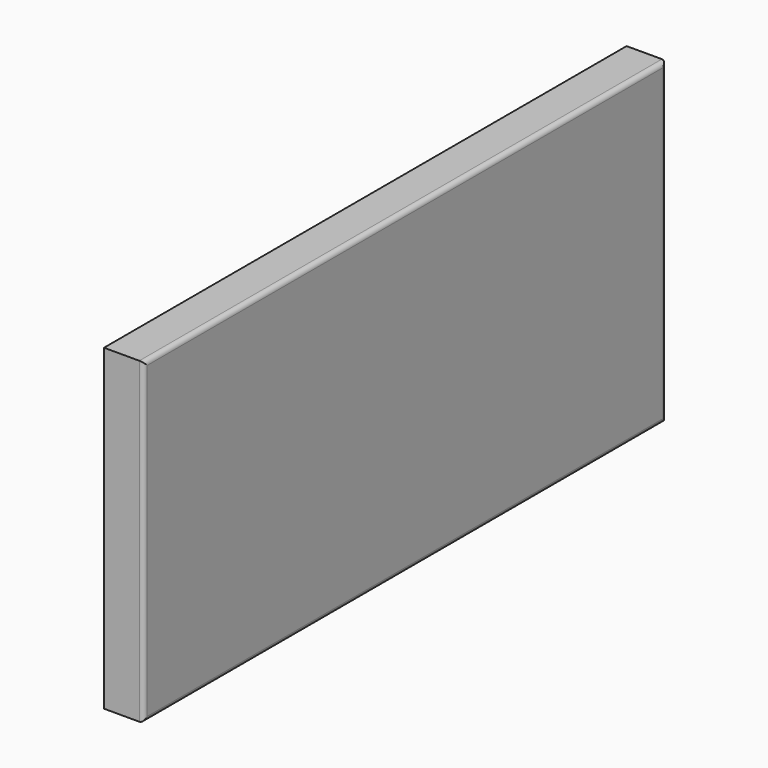
from build123d import *

# Parameters (mm, degrees)
F0_W     = 43.0421233177
F0_H     = 34.4761312008
F1_DEPTH = 25
F2_DEPTH = 144
F3_DEPTH = 18
F4_DEPTH = 296
F5_R     = 2


with BuildPart() as f1:
    # F0 (on Right) → F1 (new body)
    with BuildSketch(Plane.YZ):
        with Locations((-21.5210616589, 17.2380656004)):
            Rectangle(F0_W, F0_H)
    extrude(amount=-F1_DEPTH)

    # F2 (add): a face of the model
    f2_faces = [f1.faces().sort_by_distance(p)[0] for p in [
        (-12.5, -21.5210616589, 0),
    ]]
    extrude(f2_faces, amount=-F2_DEPTH)

    # F3 (intersect): a face of the model
    f3_faces = [f1.faces().sort_by_distance(p)[0] for p in [
        (0, -21.5210616589, 72),
    ]]
    extrude(f3_faces, amount=-F3_DEPTH, mode=Mode.INTERSECT)

    # F4 (add): a face of the model
    f4_faces = [f1.faces().sort_by_distance(p)[0] for p in [
        (-9, 0, 72),
    ]]
    extrude(f4_faces, amount=-F4_DEPTH)

    # F5
    f5_edges = [f1.edges().sort_by_distance(p)[0] for p in [
        (0, -148, 0),
        (0, 0, 72),
        (0, -148, 144),
        (0, -296, 72),
    ]]
    fillet(f5_edges, radius=F5_R)


solid = f1.part
